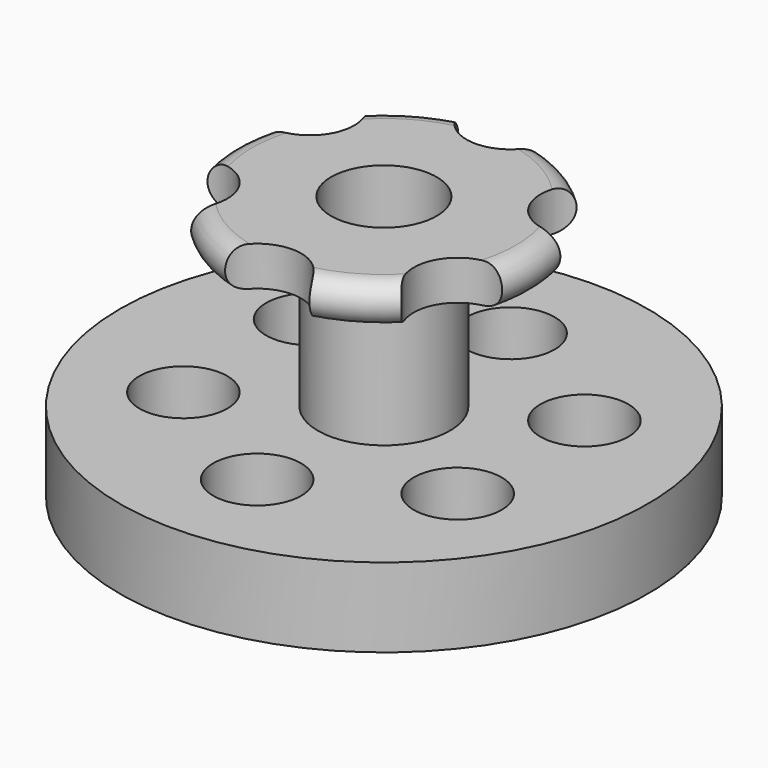
from build123d import *

# Parameters (mm, degrees)
F2_R     = 42.333333
F3_DEPTH = 254.001


with BuildPart() as f1:
    # F0 (on Front) → F1 (revolve)
    with BuildSketch(Plane.XZ):
        Polygon((-50.8, 0), (-50.8, 254), (-127, 254), (-127, 215.9), (-63.5, 215.9), (-63.5, 76.2), (-254, 76.2), (-254, 0), align=None)
        with BuildLine():
            Line((-127, 215.9), (-127, 254))
            ThreePointArc((-127, 254), (-146.05, 234.95), (-127, 215.9))
        make_face()
        Polygon((-50.8, 0), (-50.8, 254), (-127, 254), (-127, 215.9), (-63.5, 215.9), (-63.5, 76.2), (-254, 76.2), (-254, 0), align=None)
    revolve(axis=Axis((0, 0, -8.463883), (0, 0, -1)))

    # F2 (on face) → F3 (cut, through all)
    with BuildSketch(Plane(origin=(0, 0, 0), x_dir=(1, 0, 0), z_dir=(0, 0, -1))):
        with Locations((0, 152.4)):
            Circle(F2_R)
        with Locations((-131.982272, 76.2)):
            Circle(F2_R)
        with Locations((-131.982272, -76.2)):
            Circle(F2_R)
        with Locations((0, -152.4)):
            Circle(F2_R)
        with Locations((131.982272, -76.2)):
            Circle(F2_R)
        with Locations((131.982272, 76.2)):
            Circle(F2_R)
    extrude(amount=-F3_DEPTH, mode=Mode.SUBTRACT)


solid = f1.part
